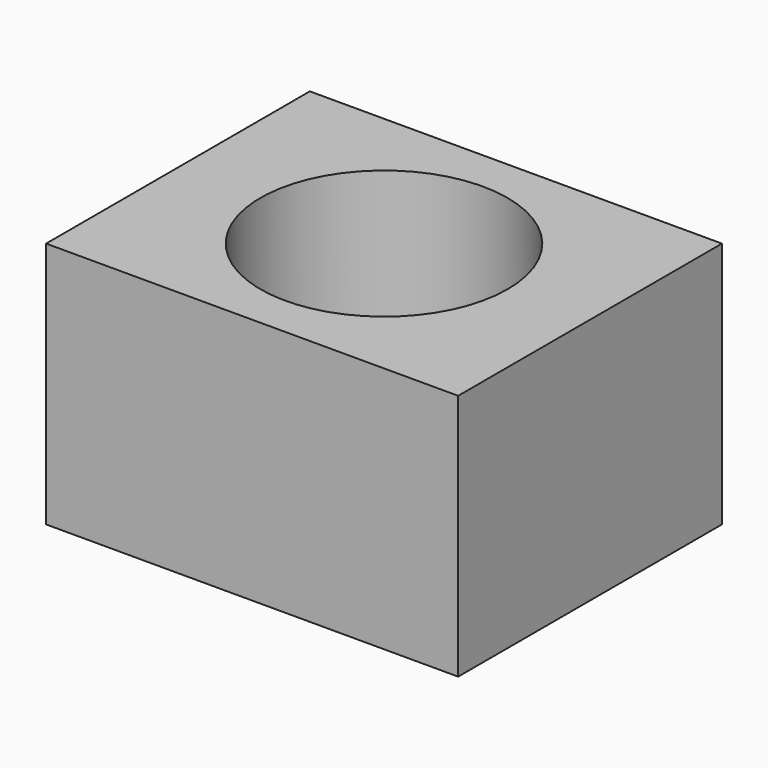
from build123d import *

# Parameters (mm, degrees)
F0_W     = 63.5
F0_H     = 50.8
F1_DEPTH = 38.1
F2_R     = 19.05
F3_DEPTH = 25.4
F4_R     = 2.54
F5_T     = -1.27


with BuildPart() as f1:
    # F0 (on Top) → F1 (new body)
    with BuildSketch(Plane.XY):
        with Locations((-3.1476, -8.151593)):
            Rectangle(F0_W, F0_H)
    extrude(amount=F1_DEPTH)

    # F2 (on face) → F3 (cut)
    with BuildSketch(Plane.XY.offset(38.1)):
        with Locations((-3.1476, -8.151593)):
            Circle(F2_R)
    extrude(amount=-F3_DEPTH, mode=Mode.SUBTRACT)

    # F4
    f4_edges = [f1.edges().sort_by_distance(p)[0] for p in [
        (-22.1976, -8.151593, 12.7),
    ]]
    fillet(f4_edges, radius=F4_R)

    # F5
    f5_openings = [f1.faces().sort_by_distance(p)[0] for p in [
        (-3.1476, -8.151593, 0),
    ]]
    offset(amount=F5_T, openings=f5_openings)


solid = f1.part
